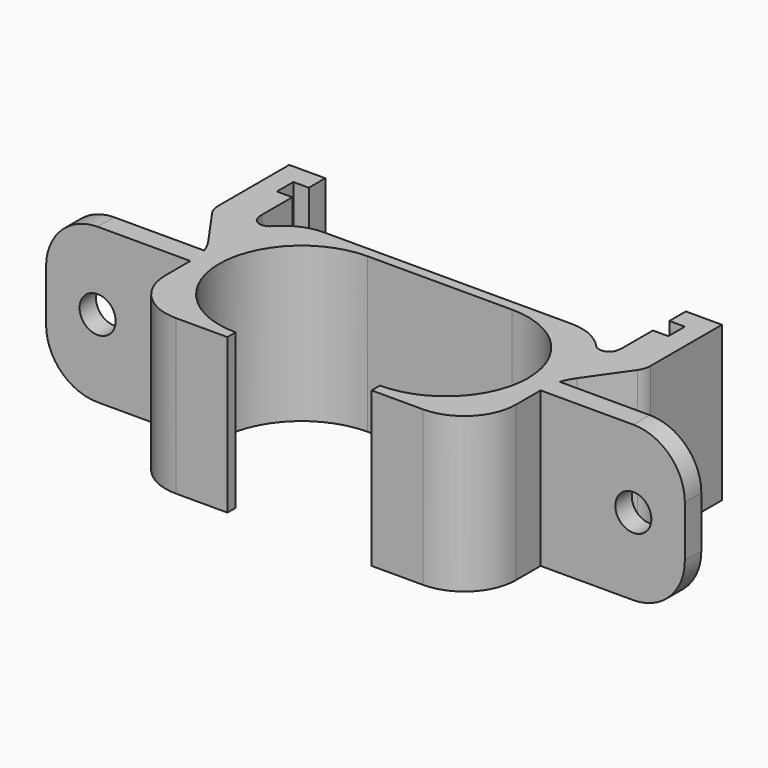
from build123d import *

# Parameters (mm, degrees)
F1_DEPTH = 7.5
F3_DEPTH = 15
F4_R     = 1.75
F5_DEPTH = 25
F6_R     = 5


with BuildPart() as f1:
    # F0 (on Top) → F1 (new body, symmetric)
    with BuildSketch(Plane.XY):
        with BuildLine():
            ThreePointArc((-7, -8), (-15, 0), (-7, 8))
            Line((-7, 8), (7, 8))
            ThreePointArc((7, 8), (15, 0), (7, -8))
            Line((7, -8), (7, -9))
            Line((7, -9), (12, -9))
            ThreePointArc((12, -9), (15.5355339059, -7.5355339059), (17, -4))
            Line((17, -4), (17, -0.5764939444))
            ThreePointArc((17, -0.5764939444), (17.2314152463, 0.9270350531), (17.9042397786, 2.2913882374))
            Line((17.9042397786, 2.2913882374), (20.6383040886, 6.196036732))
            ThreePointArc((20.6383040886, 6.196036732), (20.9074339015, 6.7417780057), (21, 7.3431896047))
            Line((21, 7.3431896047), (21, 16))
            Line((21, 16), (17.5, 16))
            Line((17.5, 16), (17.5, 14))
            Line((17.5, 14), (19, 14))
            Line((19, 14), (19, 12))
            Line((19, 12), (17.5, 12))
            Line((17.5, 12), (17.5, 8.3))
            ThreePointArc((17.5, 8.3), (17.4540535831, 7.8737669717), (17.3183254055, 7.4671178237))
            ThreePointArc((17.3183254055, 7.4671178237), (16.5559000227, 7.003514385), (15.7267799625, 7.3333333333))
            ThreePointArc((15.7267799625, 7.3333333333), (14.0412414523, 8.5643546459), (12, 9))
            Line((12, 9), (-12, 9))
            ThreePointArc((-12, 9), (-14.0412414523, 8.5643546459), (-15.7267799625, 7.3333333333))
            ThreePointArc((-15.7267799625, 7.3333333333), (-16.5559000227, 7.003514385), (-17.3183254055, 7.4671178237))
            ThreePointArc((-17.3183254055, 7.4671178237), (-17.4540535831, 7.8737669717), (-17.5, 8.3))
            Line((-17.5, 8.3), (-17.5, 12))
            Line((-17.5, 12), (-19, 12))
            Line((-19, 12), (-19, 14))
            Line((-19, 14), (-17.5, 14))
            Line((-17.5, 14), (-17.5, 16))
            Line((-17.5, 16), (-21, 16))
            Line((-21, 16), (-21, 7.3431896047))
            ThreePointArc((-21, 7.3431896047), (-20.9074339015, 6.7417780057), (-20.6383040886, 6.196036732))
            Line((-20.6383040886, 6.196036732), (-17.9042397786, 2.2913882374))
            ThreePointArc((-17.9042397786, 2.2913882374), (-17.2314152463, 0.9270350531), (-17, -0.5764939444))
            Line((-17, -0.5764939444), (-17, -4))
            ThreePointArc((-17, -4), (-15.5355339059, -7.5355339059), (-12, -9))
            Line((-12, -9), (-7, -9))
            Line((-7, -9), (-7, -8))
        make_face()
    extrude(amount=F1_DEPTH, both=True)

    # F2 (on face) → F3 (join)
    with BuildSketch(Plane.XY.offset(7.5)):
        with BuildLine():
            Line((31, 1), (17.2550377406, 1))
            ThreePointArc((17.2550377406, 1), (17.0641712298, 0.2220011097), (17, -0.5764939444))
            Line((17, -0.5764939444), (17, -1))
            Line((17, -1), (31, -1))
            Line((31, -1), (31, 1))
        make_face()
        with BuildLine():
            Line((-31, -1), (-17, -1))
            Line((-17, -1), (-17, -0.5764939444))
            ThreePointArc((-17, -0.5764939444), (-17.0641712298, 0.2220011097), (-17.2550377406, 1))
            Line((-17.2550377406, 1), (-31, 1))
            Line((-31, 1), (-31, -1))
        make_face()
    extrude(amount=-F3_DEPTH)

    # F4 (on face) → F5 (cut)
    with BuildSketch(Plane(origin=(0, 1, 0), x_dir=(-1, 0, 0), z_dir=(0, 1, 0))):
        with Locations((-26, 0)):
            Circle(F4_R)
        with Locations((26, 0)):
            Circle(F4_R)
    extrude(amount=-F5_DEPTH, mode=Mode.SUBTRACT)

    # F6
    f6_edges = [f1.edges().sort_by_distance(p)[0] for p in [
        (-31, 0, -7.5),
        (-31, 0, 7.5),
        (31, 0, -7.5),
        (31, 0, 7.5),
    ]]
    fillet(f6_edges, radius=F6_R)


solid = f1.part
